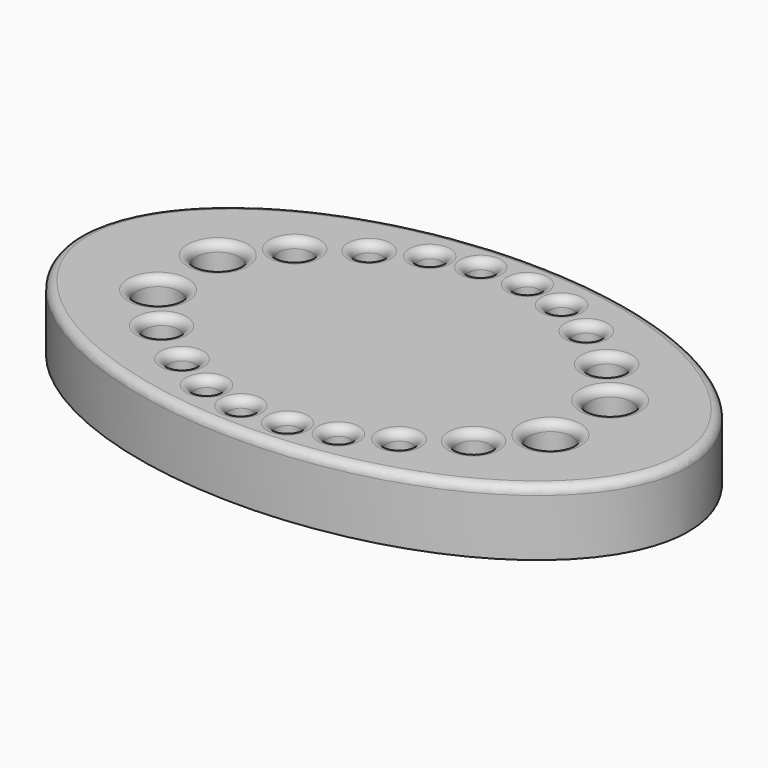
from build123d import *

# Parameters (mm, degrees)
F2_DEPTH = 15.748
F0_R     = 5.219029
F0_R_2   = 4.036121
F0_R_3   = 3.127568
F0_R_4   = 2.909454
F0_R_5   = 2.883479
F3_DEPTH = 6.858
F4_R     = 2.032


with BuildPart() as f2:
    # F1 (on Top) → F2 (new body)
    with BuildSketch(Plane.XY):
        with BuildLine():
            add(Edge.make_bspline(
                [(73.403771, 0), (73.403771, 76.91667), (-36.701885, 38.458335), (-146.807542, 0), (-36.701885, -38.458335), (73.403771, -76.91667), (73.403771, 0)],
                knots=[0, 0, 0, 2.094395, 2.094395, 4.18879, 4.18879, 6.283185, 6.283185, 6.283185], degree=2, weights=[1, 0.5, 1, 0.5, 1, 0.5, 1]))
        make_face()
    extrude(amount=-F2_DEPTH)

    # F0 (on Top) → F3 (cut)
    with BuildSketch(Plane.XY):
        with Locations((-47.327127, 9.019309)):
            Circle(F0_R)
        with Locations((-37.628945, 20.075237)):
            Circle(F0_R_2)
        with Locations((-26.185092, 28.22171)):
            Circle(F0_R_3)
        with Locations((-15.905019, 33.652689)):
            Circle(F0_R_4)
        with Locations((-5.624946, 36.174219)):
            Circle(F0_R_5)
        with Locations((26.185092, 28.22171)):
            Circle(F0_R_3)
        with Locations((5.624946, 36.174219)):
            Circle(F0_R_5)
        with Locations((15.905019, 33.652689)):
            Circle(F0_R_4)
        with Locations((37.628945, 20.075237)):
            Circle(F0_R_2)
        with Locations((47.327127, 9.019309)):
            Circle(F0_R)
        with Locations((26.185092, -28.22171)):
            Circle(F0_R_3)
        with Locations((-5.624946, -36.174219)):
            Circle(F0_R_5)
        with Locations((15.905019, -33.652689)):
            Circle(F0_R_4)
        with Locations((-26.185092, -28.22171)):
            Circle(F0_R_3)
        with Locations((-37.628945, -20.075237)):
            Circle(F0_R_2)
        with Locations((47.327127, -9.019309)):
            Circle(F0_R)
        with Locations((37.628945, -20.075237)):
            Circle(F0_R_2)
        with Locations((-15.905019, -33.652689)):
            Circle(F0_R_4)
        with Locations((5.624946, -36.174219)):
            Circle(F0_R_5)
        with Locations((-47.327127, -9.019309)):
            Circle(F0_R)
    extrude(amount=-F3_DEPTH, mode=Mode.SUBTRACT)

    # F4
    f4_edges = [f2.edges().sort_by_distance(p)[0] for p in [
        (-73.403771, 1e-06, 0),
        (-41.665066, -20.075237, 0),
        (-18.814473, -33.652689, 0),
        (-8.508425, -36.174219, 0),
        (-29.31266, -28.22171, 0),
        (-52.546157, -9.019309, 0),
        (2.741467, -36.174219, 0),
        (12.995565, -33.652689, 0),
        (23.057523, -28.22171, 0),
        (33.592824, -20.075237, 0),
        (42.108098, -9.019309, 0),
        (-52.546157, 9.019309, 0),
        (-41.665066, 20.075237, 0),
        (-29.31266, 28.22171, 0),
        (-18.814473, 33.652689, 0),
        (-8.508425, 36.174219, 0),
        (42.108098, 9.019309, 0),
        (23.057523, 28.22171, 0),
        (2.741467, 36.174219, 0),
        (12.995565, 33.652689, 0),
        (33.592824, 20.075237, 0),
    ]]
    fillet(f4_edges, radius=F4_R)


solid = f2.part
